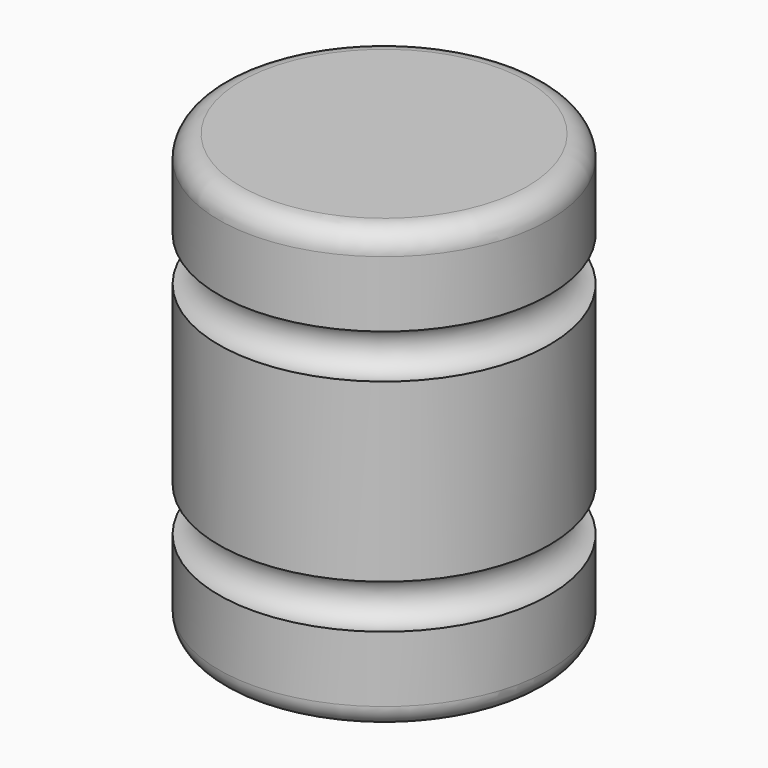
from build123d import *

# Parameters (mm, degrees)
F2_R = 2.5654


with BuildPart() as f1:
    # F0 (on Front) → F1 (revolve)
    with BuildSketch(Plane.XZ):
        with BuildLine():
            Line((-19.05, 0), (0, 0))
            Line((0, 0), (0, 10.16))
            ThreePointArc((0, 10.16), (-2.54, 12.7), (0, 15.24))
            Line((0, 15.24), (0, 35.56))
            ThreePointArc((0, 35.56), (-2.54, 38.1), (0, 40.64))
            Line((0, 40.64), (0, 50.8))
            Line((0, 50.8), (-19.05, 50.8))
            Line((-19.05, 50.8), (-19.05, 0))
        make_face()
    revolve(axis=Axis((-19.05, 0, 25.4), (0, 0, 1)))

    # F2
    f2_edges = [f1.edges().sort_by_distance(p)[0] for p in [
        (-38.1, 0, 50.8),
        (-38.1, 0, 0),
    ]]
    fillet(f2_edges, radius=F2_R)


solid = f1.part
